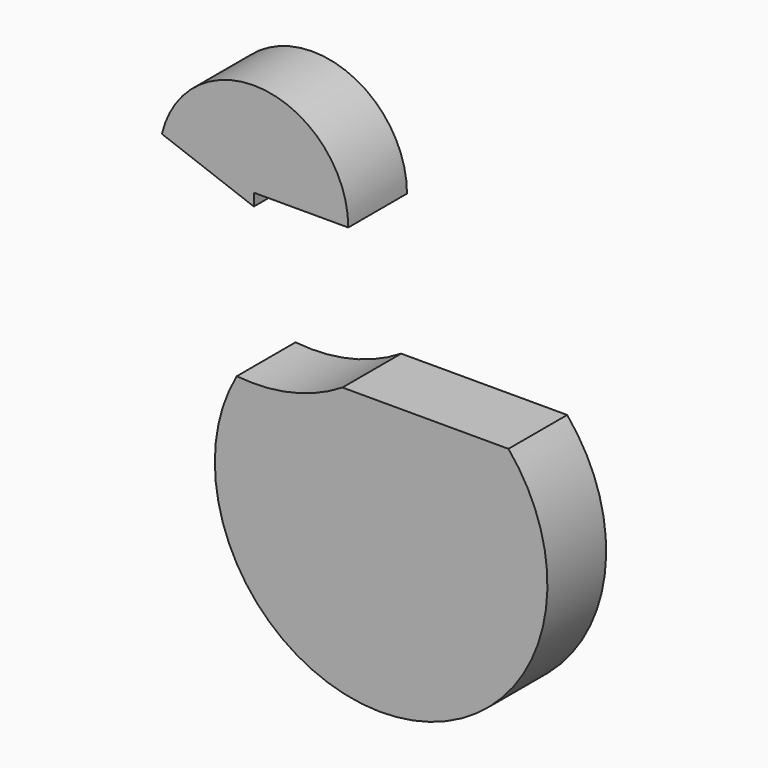
from build123d import *

# Parameters (mm, degrees)
F1_DEPTH = 25.4


with BuildPart() as f1:
    # F0 (on Front) → F1 (new body)
    with BuildSketch(Plane.XZ):
        with BuildLine():
            Line((44.2462004721, -24.6908816043), (-13.1903777916, -24.6908816043))
            ThreePointArc((-13.1903777916, -24.6908816043), (-30.7756382247, -31.9501557943), (-49.7628601161, -33.1434081223))
            ThreePointArc((-49.7628601161, -33.1434081223), (5.3429339611, -119.0194587938), (44.2462004721, -24.6908816043))
        make_face()
    extrude(amount=F1_DEPTH)


with BuildPart() as f1b:
    # F0 (on Front) → F1, piece 2 (new body)
    with BuildSketch(Plane.XZ):
        with BuildLine():
            Line((-75.6675221451, 32.23115595), (-43.8663512468, 20.4463482369))
            Line((-43.8663512468, 20.4463482369), (-43.8663512468, 24.6908816043))
            Line((-43.8663512468, 24.6908816043), (-11.1834779382, 24.6908816043))
            ThreePointArc((-11.1834779382, 24.6908816043), (-40.0705266872, 57.1525809379), (-75.6675221451, 32.23115595))
        make_face()
    extrude(amount=F1_DEPTH)


solid = Compound([f1.part, f1b.part])
